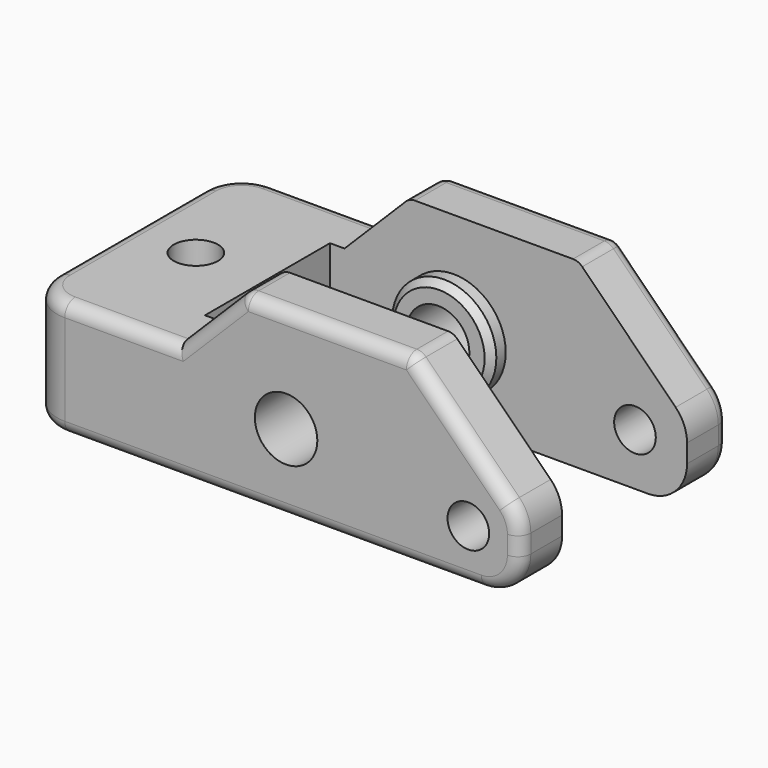
from build123d import *

# Parameters (mm, degrees)
SKETCH012_R            = 2.4
SKETCH012_R_2          = 1.6
PAD010_DEPTH           = 30
CYLINDER005_R          = 4
CYLINDER005_DEPTH      = 5
CYLINDER005_ROLL_ANGLE = 90
CYLINDER004_R          = 4
CYLINDER004_DEPTH      = 5
CYLINDER004_ROLL_ANGLE = 90
CHAMFER_SIZE           = 0.5
CYLINDER003_R          = 1.7
CYLINDER003_DEPTH      = 15
PRISM_DEPTH            = 10
BOX013_W               = 30
BOX013_H               = 12
BOX013_DEPTH           = 20
PAD009_DEPTH           = 20
FILLET015_R            = 3
FILLET016_R            = 1


with BuildPart() as pad010:
    # Sketch012 → Pad010 (new body)
    with BuildSketch(Plane.XZ.offset(-5)):
        with Locations((4.42924, 6)):
            Circle(SKETCH012_R)
        with Locations((18.42924, 4)):
            Circle(SKETCH012_R_2)
    extrude(amount=PAD010_DEPTH)


with BuildPart() as cylinder005:
    # Cylinder005 → Cylinder005 (new body)
    with BuildSketch(Plane.XY):
        Circle(CYLINDER005_R)
    extrude(amount=CYLINDER005_DEPTH)


with BuildPart() as cylinder005_1:
    # Cylinder005 roll: moved
    add(cylinder005.part.rotate(Axis((0, 0, 0), (1, 0, 0)), CYLINDER005_ROLL_ANGLE))


with BuildPart() as cylinder005_2:
    # Cylinder005 placement: moved
    add(cylinder005_1.part.moved(Location((4.5, -14.6, 6))))


with BuildPart() as chamfer_body:
    # Cylinder004 → Cylinder004 (new body)
    with BuildSketch(Plane.XY):
        Circle(CYLINDER004_R)
    extrude(amount=CYLINDER004_DEPTH)


with BuildPart() as chamfer_body_1:
    # Cylinder004 roll: moved
    add(chamfer_body.part.rotate(Axis((0, 0, 0), (1, 0, 0)), CYLINDER004_ROLL_ANGLE))


with BuildPart() as chamfer_body_2:
    # Cylinder004 placement: moved
    add(chamfer_body_1.part.moved(Location((4.5, -0.4, 6))))

    # Fusion006: union Cylinder005
    add(cylinder005_2.part)

    # Chamfer
    chamfer_edges = [chamfer_body_2.edges().sort_by_distance(p)[0] for p in [
        (0.5, -5.4, 6),
        (0.5, -14.6, 6),
    ]]
    chamfer(chamfer_edges, length=CHAMFER_SIZE)


with BuildPart() as cylinder003:
    # Cylinder003 → Cylinder003 (new body)
    with BuildSketch(Plane(origin=(-10.5, -10, -2), x_dir=(1, 0, 0), z_dir=(0, 0, 1))):
        Circle(CYLINDER003_R)
    extrude(amount=CYLINDER003_DEPTH)


with BuildPart() as prism:
    # Prism → Prism (new body)
    with BuildSketch(Plane(origin=(-10.5, -10, -7), x_dir=(1, 0, 0), z_dir=(0, 0, 1))):
        Polygon((3.4, 0), (1.7, 2.944486), (-1.7, 2.944486), (-3.4, 0), (-1.7, -2.944486), (1.7, -2.944486), align=None)
    extrude(amount=PRISM_DEPTH)


with BuildPart() as cube013:
    # Box013 → Box013 (new body)
    with BuildSketch(Plane(origin=(-5, -16, -2), x_dir=(1, 0, 0), z_dir=(0, 0, 1))):
        with Locations((15, 6)):
            Rectangle(BOX013_W, BOX013_H)
    extrude(amount=BOX013_DEPTH)


with BuildPart() as cut021:
    # Sketch011 → Pad009 (new body)
    with BuildSketch(Plane.XZ):
        Polygon((-15.57076, 9), (-3.884468, 9), (1.115532, 14), (14.086094, 14), (22.42924, 5.656854), (22.42924, 0), (-15.57076, 0), align=None)
    extrude(amount=PAD009_DEPTH)

    # Cut018: cut Cube013
    add(cube013.part, mode=Mode.SUBTRACT)

    # Cut019: cut Prism
    add(prism.part, mode=Mode.SUBTRACT)

    # Cut020: cut Cylinder003
    add(cylinder003.part, mode=Mode.SUBTRACT)

    # Fillet015
    fillet015_edges = [cut021.edges().sort_by_distance(p)[0] for p in [
        (-15.57076, 0, 4.5),
        (-15.57076, -20, 4.5),
        (22.42924, -2, 5.656854),
        (22.42924, -2, 0),
        (22.42924, -18, 0),
        (22.42924, -18, 5.656854),
    ]]
    fillet(fillet015_edges, radius=FILLET015_R)

    # Fillet016
    fillet016_edges = [cut021.edges().sort_by_distance(p)[0] for p in [
        (-14.69208, -19.12132, 9),
        (-8.227614, -20, 9),
        (-1.384468, 0, 11.5),
        (7.600813, 0, 14),
        (17.818327, 0, 10.267767),
        (1.115532, -2, 14),
        (-1.384468, -20, 11.5),
        (7.600813, -20, 14),
        (17.818327, -20, 10.267767),
        (1.115532, -18, 14),
        (14.086094, -2, 14),
        (14.086094, -18, 14),
    ]]
    fillet(fillet016_edges, radius=FILLET016_R)

    # Fusion007: union Chamfer body
    add(chamfer_body_2.part)

    # Cut021: cut Pad010
    add(pad010.part, mode=Mode.SUBTRACT)


solid = cut021.part
